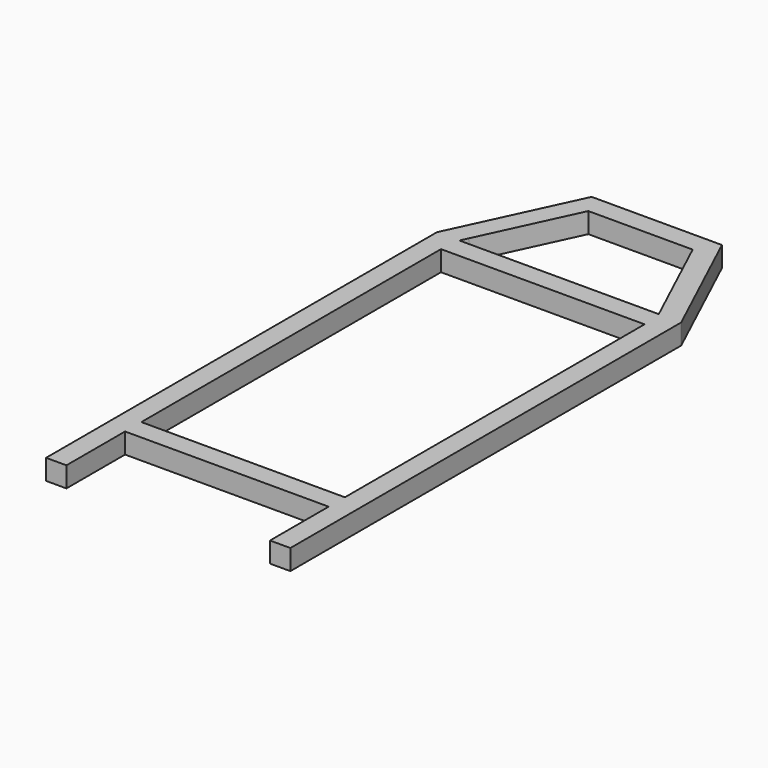
from build123d import *

# Parameters (mm, degrees)
F0_W     = 500
F0_H     = 50
F1_DEPTH = 50


with BuildPart() as f1:
    # F0 (on Top) → F1 (new body)
    with BuildSketch(Plane.XY):
        Polygon((460, 0), (140, 0), (171.843151, -50), (428.156849, -50), align=None)
        Polygon((171.843151, -50), (140, 0), (0, -300), (55.176485, -300), (63.926825, -281.24927), align=None)
        Polygon((600, -300), (460, 0), (428.156849, -50), (543.20936, -296.541095), (544.823515, -300), align=None)
        Polygon((55.176485, -300), (0, -300), (50, -350), (550, -350), (600, -300), (544.823515, -300), align=None)
        Polygon((600, -1500), (600, -300), (550, -350), (550, -1270), (550, -1320), (550, -1500), align=None)
        Polygon((50, -350), (0, -300), (0, -1500), (50, -1500), (50, -1320), (50, -1270), align=None)
        with Locations((300, -1295)):
            Rectangle(F0_W, F0_H)
    extrude(amount=F1_DEPTH)


solid = f1.part
